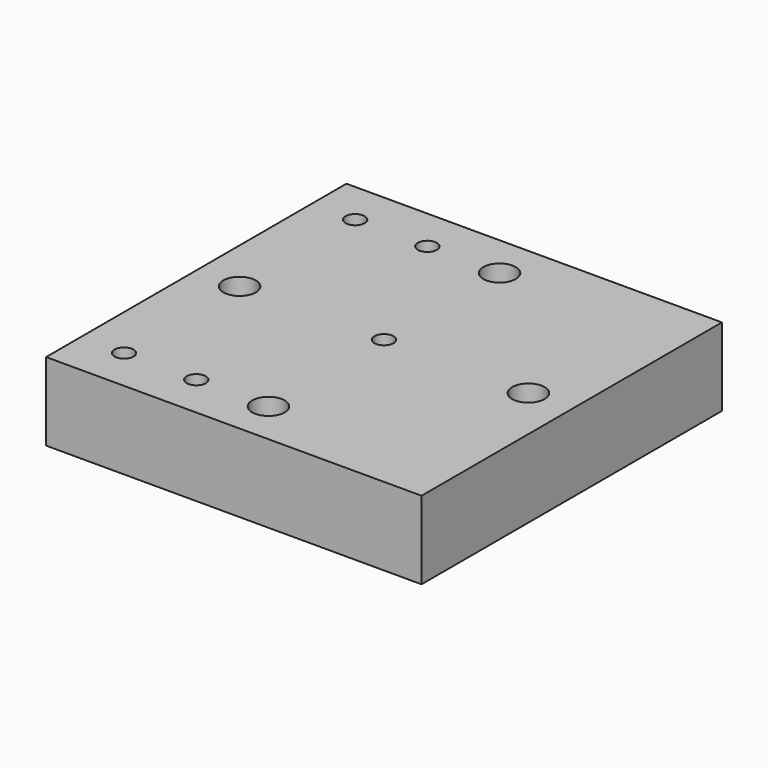
from build123d import *

# Parameters (mm, degrees)
F0_W           = 130
F0_H           = 130
F1_DEPTH       = 27
F3_D           = 6.6
F3_CBORE_D     = 11.25
F3_CBORE_DEPTH = 15
F4_D           = 6.6
F4_DEPTH       = 15
F4_TIP         = 1.9828400428


with BuildPart() as f1:
    # F0 (on Top) → F1 (new body)
    with BuildSketch(Plane.XY):
        Rectangle(F0_W, F0_H)
    extrude(amount=F1_DEPTH)

    # F3 (through all)
    with Locations(Plane.XY.offset(27)):
        with Locations((0, 50), (-50, 0), (0, -50), (50, 0)):
            CounterBoreHole(F3_D / 2, F3_CBORE_D / 2, F3_CBORE_DEPTH)

    # F4
    with Locations(Plane.XY.offset(27)):
        with Locations((-25, 50), (-25, -50), (-50, -50), (-50, 50), (0, 0)):
            Hole(F4_D / 2, depth=F4_DEPTH)
            with Locations((0, 0, -(F4_DEPTH + F4_TIP / 2))):  # 118° drill point
                Cone(0, F4_D / 2, F4_TIP, mode=Mode.SUBTRACT)


solid = f1.part
